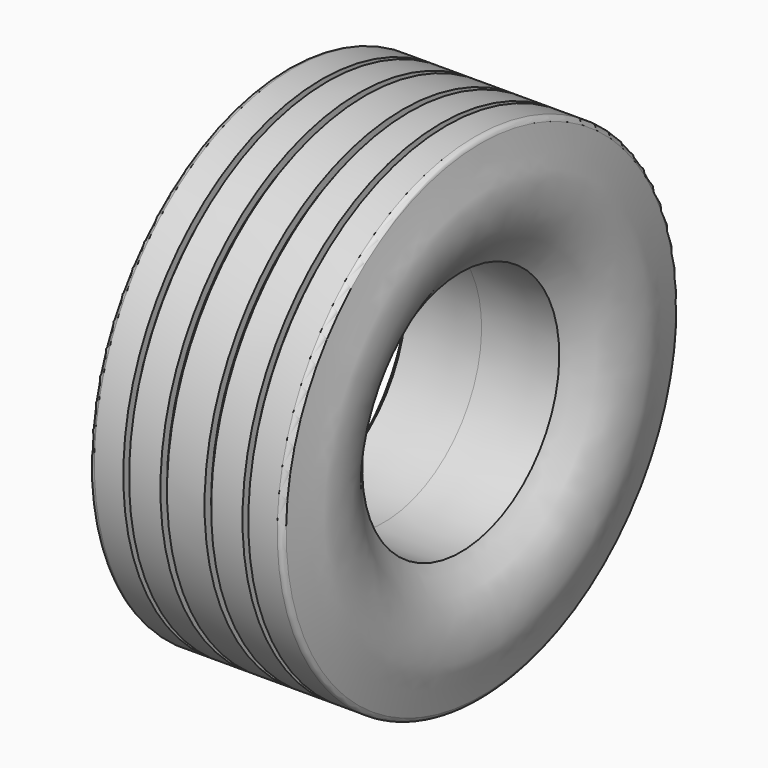
from build123d import *


with BuildPart() as f1:
    # F0 (on Front) → F1 (revolve)
    with BuildSketch(Plane.XZ):
        with BuildLine():
            Line((43.5423888266, 575.056), (0, 575.056))
            Line((0, 575.056), (0, 282.7264070511))
            Line((0, 282.7264070511), (177.8, 285.75))
            add(Edge.make_bspline(
                [(224.5690759579, 564.767555223), (227.7796308402, 548.1673929456), (233.3471252817, 514.1983709737), (248.222238916, 474.9809723209), (248.7120492832, 410.904012525), (226.5458717742, 340.6765904704), (189.2523436606, 308.2272869189), (177.8, 285.75)],
                knots=[0.0335861765, 0.0335861765, 0.0335861765, 0.0335861765, 0.1957836583, 0.3649967769, 0.565880245, 0.781920663, 1, 1, 1, 1], degree=3))
            ThreePointArc((224.5690759579, 564.767555223), (220.182936548, 572.1518346079), (212.1001384969, 575.056))
            Line((212.1001384969, 575.056), (144.9348479509, 575.056))
            Line((144.9348479509, 575.056), (144.9348479509, 556.006))
            Line((144.9348479509, 556.006), (131.5433979034, 556.006))
            Line((131.5433979034, 556.006), (131.5433979034, 575.056))
            Line((131.5433979034, 575.056), (58.8469058275, 575.056))
            Line((58.8469058275, 575.056), (58.8469058275, 556.006))
            Line((58.8469058275, 556.006), (43.5423888266, 556.006))
            Line((43.5423888266, 556.006), (43.5423888266, 575.056))
        make_face()
        with BuildLine():
            Line((0, 282.7264070511), (0, 575.056))
            Line((0, 575.056), (-43.5423888266, 575.056))
            Line((-43.5423888266, 575.056), (-43.5423888266, 556.006))
            Line((-43.5423888266, 556.006), (-58.8469058275, 556.006))
            Line((-58.8469058275, 556.006), (-58.8469058275, 575.056))
            Line((-58.8469058275, 575.056), (-131.5433979034, 575.056))
            Line((-131.5433979034, 575.056), (-131.5433979034, 556.006))
            Line((-131.5433979034, 556.006), (-144.9348479509, 556.006))
            Line((-144.9348479509, 556.006), (-144.9348479509, 575.056))
            Line((-144.9348479509, 575.056), (-212.1001384969, 575.056))
            ThreePointArc((-212.1001384969, 575.056), (-220.182936548, 572.1518346079), (-224.5690759579, 564.767555223))
            add(Edge.make_bspline(
                [(-224.5690759579, 564.767555223), (-227.7796308402, 548.1673929456), (-233.3471252817, 514.1983709737), (-248.222238916, 474.9809723209), (-248.7120492832, 410.904012525), (-226.5458717742, 340.6765904704), (-189.2523436606, 308.2272869189), (-177.8, 285.75)],
                knots=[0.0335861765, 0.0335861765, 0.0335861765, 0.0335861765, 0.1957836583, 0.3649967769, 0.565880245, 0.781920663, 1, 1, 1, 1], degree=3))
            Line((-177.8, 285.75), (0, 282.7264070511))
        make_face()
    revolve(axis=Axis((-136.4869, 0, 0), (-1, 0, 0)))


solid = f1.part
